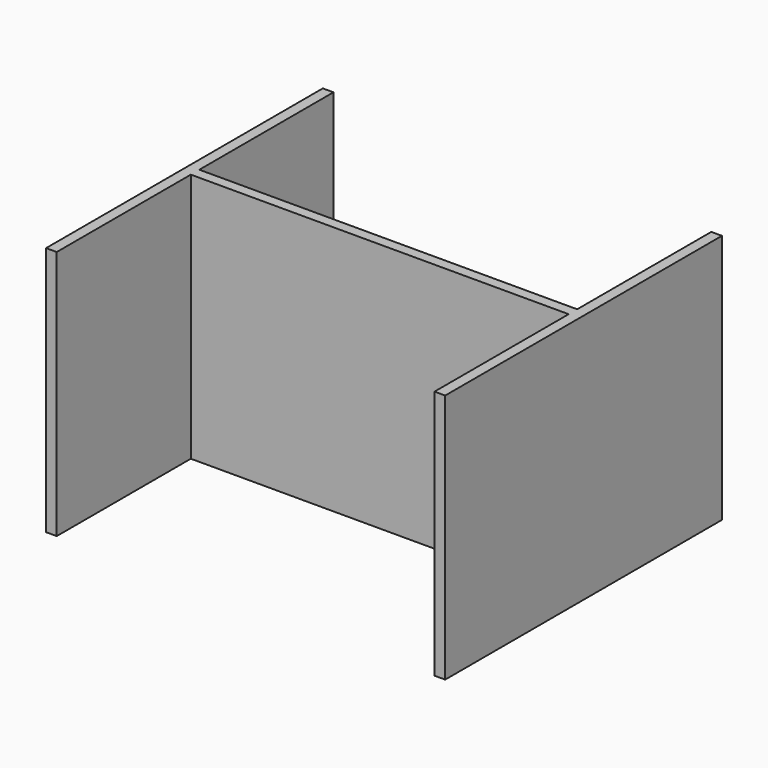
from build123d import *

# Parameters (mm, degrees)
F0_W     = 75
F0_H     = 65
F1_DEPTH = 47
F2_W     = 71
F2_H     = 63
F3_DEPTH = 66.71901


with BuildPart() as f1:
    # F0 (on Top) → F1 (new body)
    with BuildSketch(Plane.XY):
        Rectangle(F0_W, F0_H)
    extrude(amount=F1_DEPTH)

    # F2 (on face) → F3 (cut)
    with BuildSketch(Plane.XY.offset(47)):
        with Locations((0, 32.5)):
            Rectangle(F2_W, F2_H)
        with Locations((0, -32.5)):
            Rectangle(F2_W, F2_H)
    extrude(amount=-F3_DEPTH, mode=Mode.SUBTRACT)


solid = f1.part
